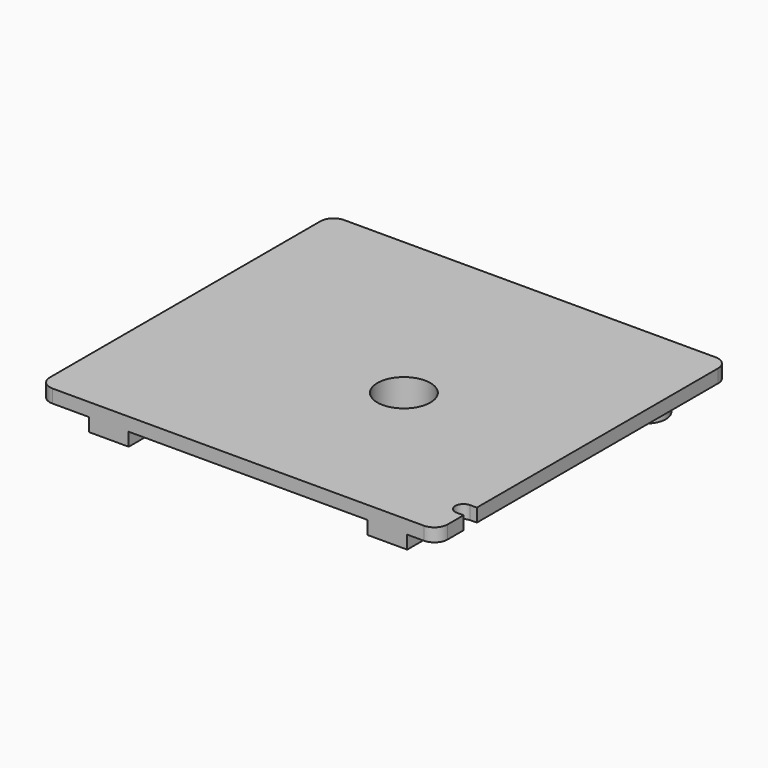
from build123d import *

# Parameters (mm, degrees)
SKETCH_R      = 4
PAD_DEPTH     = 2
SKETCH002_R   = 7
SKETCH002_R_2 = 4
PAD001_DEPTH  = 10
SKETCH003_R   = 6
SKETCH003_R_2 = 4
PAD002_DEPTH  = 2
SKETCH004_R   = 4
SKETCH004_R_2 = 3
SKETCH004_W   = 6
SKETCH004_H   = 3
PAD003_DEPTH  = 2
POCKET_DEPTH  = 5


with BuildPart() as part:
    # Sketch → Pad (new body)
    with BuildSketch(Plane.XY):
        with BuildLine():
            ThreePointArc((-33, 30), (-34.414214, 29.414214), (-35, 28))
            Line((-35, -23), (-35, 28))
            ThreePointArc((-35, -23), (-34.414214, -24.414214), (-33, -25))
            Line((23, -25), (-33, -25))
            ThreePointArc((23, -25), (24.414214, -24.414214), (25, -23))
            Line((25, 28), (25, -23))
            ThreePointArc((25, 28), (24.414214, 29.414214), (23, 30))
            Line((-33, 30), (23, 30))
        make_face()
        Circle(SKETCH_R, mode=Mode.SUBTRACT)
    extrude(amount=PAD_DEPTH)

    # Sketch002 (on Face10 of Pad) → Pad001 (join)
    with BuildSketch(Plane(origin=(0, 0, 0), x_dir=(1, 0, 0), z_dir=(0, 0, -1))):
        Circle(SKETCH002_R)
        Circle(SKETCH002_R_2, mode=Mode.SUBTRACT)
    extrude(amount=PAD001_DEPTH)

    # Sketch003 (on Face12 of Pad001) → Pad002 (join)
    with BuildSketch(Plane(origin=(0, 0, -10), x_dir=(1, 0, 0), z_dir=(0, 0, -1))):
        Circle(SKETCH003_R)
        Circle(SKETCH003_R_2, mode=Mode.SUBTRACT)
    extrude(amount=PAD002_DEPTH)

    # Sketch004 (on Face4 of Pad002) → Pad003 (join)
    with BuildSketch(Plane(origin=(0, 0, 0), x_dir=(1, 0, 0), z_dir=(0, 0, -1))):
        with Locations((-23, -24)):
            Circle(SKETCH004_R)
        with Locations((20.5, -20)):
            Circle(SKETCH004_R_2)
        with Locations((17.5, 23.5)):
            Rectangle(SKETCH004_W, SKETCH004_H)
        with Locations((-24.5, 23.5)):
            Rectangle(SKETCH004_W, SKETCH004_H)
    extrude(amount=PAD003_DEPTH)

    # Sketch005 (on Face4 of Pad003) → Pocket (cut)
    with BuildSketch(Plane(origin=(0, 0, 0), x_dir=(1, 0, 0), z_dir=(0, 0, -1))):
        with BuildLine():
            ThreePointArc((24, 20), (22.75, 18.75), (24, 17.5))
            Line((24, 17.5), (25, 17.5))
            Line((25, 20), (25, 17.5))
            Line((24, 20), (25, 20))
        make_face()
    extrude(amount=-POCKET_DEPTH, mode=Mode.SUBTRACT)


solid = part.part
